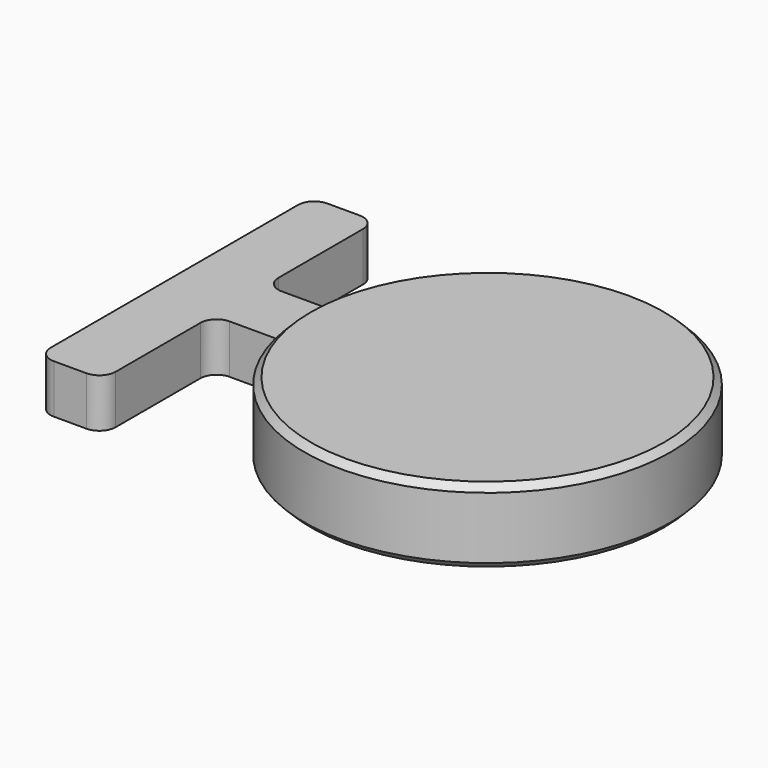
from build123d import *

# Parameters (mm, degrees)
F0_R          = 22.5
F1_DEPTH      = 4.6
F1_DEPTH_BACK = 4.6
F2_W          = 30.5
F2_H          = 8
F2_W_2        = 4
F3_DEPTH      = 3
F3_DEPTH_BACK = 3
F4_SIZE       = 0.8
F5_R          = 2
F6_R          = 2


with BuildPart() as f1:
    # F0 (on Top) → F1 (new body, two sides)
    with BuildSketch(Plane.XY) as f1_sk:
        Circle(F0_R)
    extrude(amount=F1_DEPTH)
    extrude(f1_sk.sketch, amount=-F1_DEPTH_BACK)

    # F4
    f4_edges = [f1.edges().sort_by_distance(p)[0] for p in [
        (-22.5, 0, 4.6),
        (-22.5, 0, -4.6),
    ]]
    chamfer(f4_edges, length=F4_SIZE)


with BuildPart() as f3:
    # F2 (on Top) → F3 (new body, two sides)
    with BuildSketch(Plane.XY) as f3_sk:
        with Locations((-15.25, 0)):
            Rectangle(F2_W, F2_H)
        Polygon((-30.5, -21), (-30.5, -4), (-34.5, -4), (-34.5, 4), (-30.5, 4), (-30.5, 21), (-38.5, 21), (-38.5, -21), align=None)
        with Locations((-32.5, 0)):
            Rectangle(F2_W_2, F2_H)
    extrude(amount=F3_DEPTH)
    extrude(f3_sk.sketch, amount=-F3_DEPTH_BACK)

    # F5
    f5_edges = [f3.edges().sort_by_distance(p)[0] for p in [
        (-30.5, -4, 0),
        (-30.5, 4, 0),
    ]]
    fillet(f5_edges, radius=F5_R)

    # F6
    f6_edges = [f3.edges().sort_by_distance(p)[0] for p in [
        (-30.5, -21, 0),
        (-38.5, -21, 0),
        (-30.5, 21, 0),
        (-38.5, 21, 0),
    ]]
    fillet(f6_edges, radius=F6_R)


solid = Compound([f1.part, f3.part])
